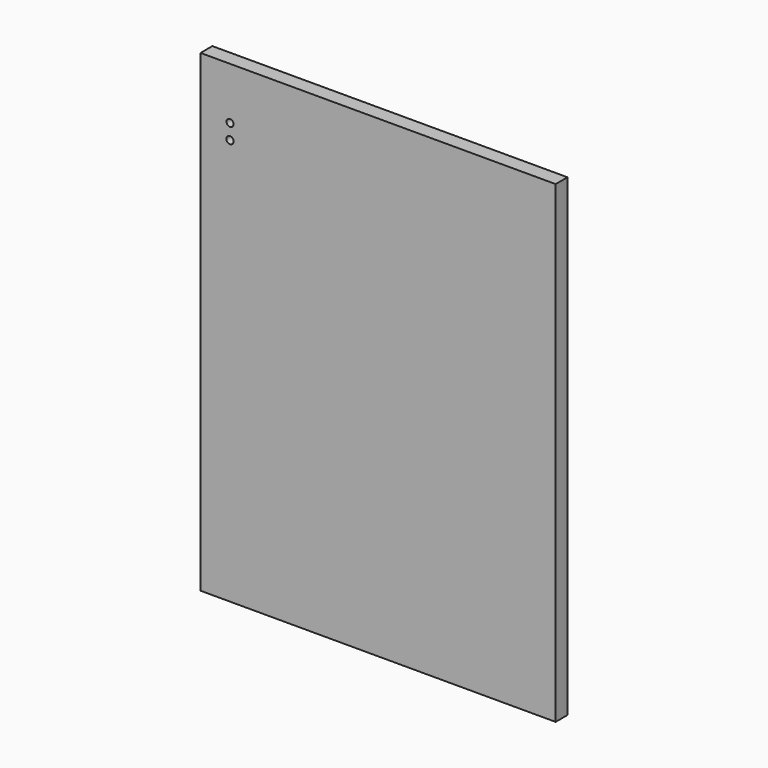
from build123d import *

# Parameters (mm, degrees)
F0_W     = 152.4
F0_H     = 203.2
F1_DEPTH = 6.35
F4_DEPTH = 25.4


with BuildPart() as f1:
    # F0 (on Front) → F1 (new body)
    with BuildSketch(Plane.XZ):
        Rectangle(F0_W, F0_H)
    extrude(amount=F1_DEPTH)

    # F3 (on face) → F4 (cut)
    with BuildSketch(Plane.XZ.offset(6.35)):
        with BuildLine():
            Line((-63.5, 77.7621199232), (-63.5, 80.7596084291))
            ThreePointArc((-63.5, 80.7596084291), (-65.0613650084, 79.2608641762), (-63.5, 77.7621199232))
        make_face()
        with BuildLine():
            ThreePointArc((-63.5, 77.7621199232), (-62.4792264977, 78.2221263634), (-62.0613650084, 79.2608641762))
            ThreePointArc((-62.0613650084, 79.2608641762), (-62.4792264977, 80.299601989), (-63.5, 80.7596084291))
            Line((-63.5, 80.7596084291), (-63.5, 77.7621199232))
        make_face()
        with BuildLine():
            Line((-63.5, 71.1869115804), (-63.5, 74.2966090301))
            ThreePointArc((-63.5, 74.2966090301), (-65.1174242043, 72.7417603053), (-63.5, 71.1869115804))
        make_face()
        with BuildLine():
            ThreePointArc((-62.0053058124, 72.7417603053), (-62.4395789755, 73.8201462835), (-63.5, 74.2966090301))
            Line((-63.5, 74.2966090301), (-63.5, 71.1869115804))
            ThreePointArc((-63.5, 71.1869115804), (-62.4395789755, 71.6633743271), (-62.0053058124, 72.7417603053))
        make_face()
    extrude(amount=-F4_DEPTH, mode=Mode.SUBTRACT)


solid = f1.part
